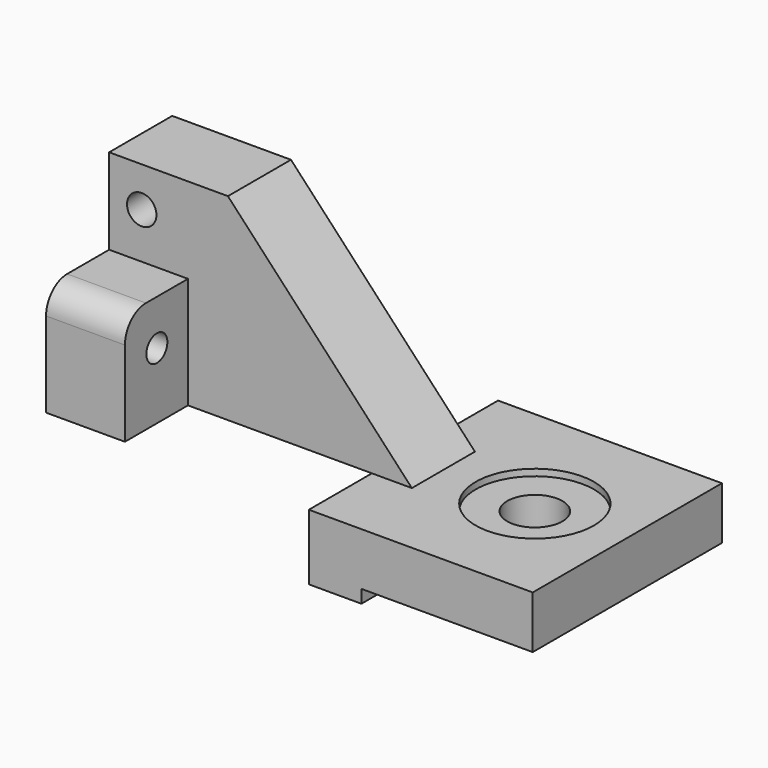
from build123d import *

# Parameters (mm, degrees)
F0_W           = 41.402
F0_H           = 12.7
F1_DEPTH       = 57.15
F3_D           = 13.335
F3_CBORE_D     = 28.575
F3_CBORE_DEPTH = 1.6002
F2_W           = 34.798
F2_H           = 19.05
F4_DEPTH       = 47.6504
F6_DEPTH       = 34.9504
F7_W           = 19.05
F7_H           = 47.6504
F8_DEPTH       = 28.702
F9_W           = 19.05
F9_H           = 26.924
F10_DEPTH      = 19.05
F11_R          = 6.35
F14_D          = 6.35
F15_D          = 7.112


with BuildPart() as f1:
    # F0 (on Front) → F1 (new body)
    with BuildSketch(Plane.XZ):
        with Locations((20.701, 6.35)):
            Rectangle(F0_W, F0_H)
        Polygon((0, -3.175), (0, 0), (0, 12.7), (-12.7, 12.7), (-12.7, -3.175), align=None)
    extrude(amount=-F1_DEPTH)

    # F3 (through all)
    with Locations(Plane.XY.offset(12.7)):
        with Locations((19.05, 28.575)):
            CounterBoreHole(F3_D / 2, F3_CBORE_D / 2, F3_CBORE_DEPTH)

    # F2 (on face) → F4 (join)
    with BuildSketch(Plane.XY.offset(12.7)):
        with Locations((-30.099, 28.575)):
            Rectangle(F2_W, F2_H)
        Polygon((-3.048, 19.05), (-3.048, 28.575), (-3.048, 38.1), (-12.7, 38.1), (-12.7, 19.05), align=None)
    extrude(amount=F4_DEPTH)

    # F5 (on face) → F6 (cut)
    with BuildSketch(Plane.XZ.offset(-19.05)):
        Polygon((-3.048, 60.3504), (-47.498, 60.3504), (-3.048, 12.7), align=None)
    extrude(amount=-F6_DEPTH, mode=Mode.SUBTRACT)

    # F7 (on face) → F8 (join)
    with BuildSketch(Plane(origin=(-47.498, 0, 0), x_dir=(0, -1, 0), z_dir=(-1, 0, 0))):
        with Locations((-28.575, 36.5252)):
            Rectangle(F7_W, F7_H)
    extrude(amount=F8_DEPTH)

    # F9 (on face) → F10 (join)
    with BuildSketch(Plane.XZ.offset(-19.05)):
        with Locations((-66.675, 26.162)):
            Rectangle(F9_W, F9_H)
    extrude(amount=F10_DEPTH)

    # F11
    f11_edges = [f1.edges().sort_by_distance(p)[0] for p in [
        (-66.675, 0, 39.624),
    ]]
    fillet(f11_edges, radius=F11_R)

    # F14 (through all)
    with Locations(Plane.YZ.offset(-57.15)):
        with Locations((9.652, 28.702)):
            Hole(F14_D / 2)

    # F15 (through all)
    with Locations(Plane.XZ.offset(-19.05)):
        with Locations((-68.326, 50.6984)):
            Hole(F15_D / 2)


solid = f1.part
